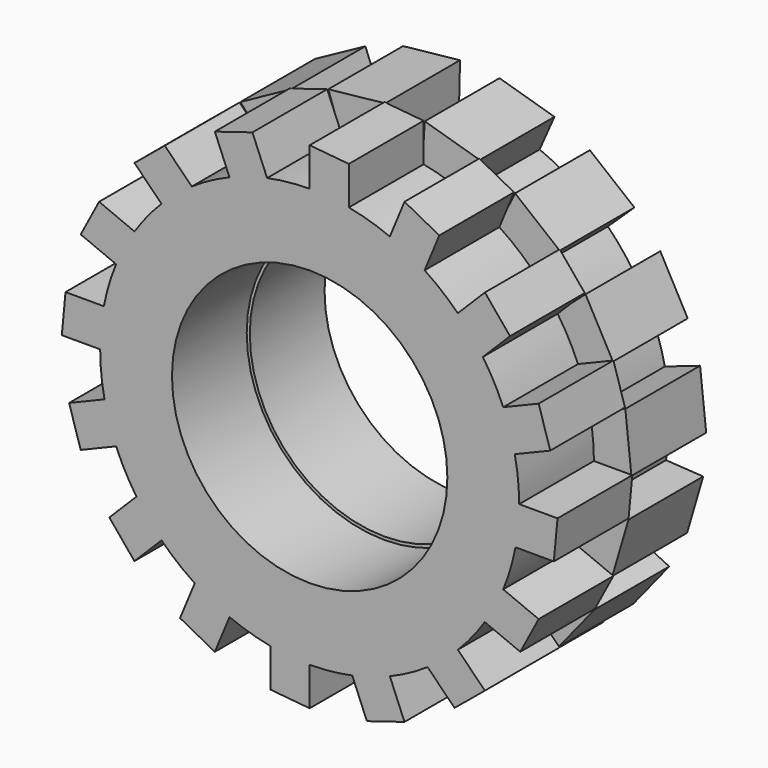
from build123d import *

# Parameters (mm, degrees)
F0_R     = 4.2
F1_DEPTH = 2.85
F2_R     = 4.106282
F3_DEPTH = 2.85


with BuildPart() as f1:
    # F0 (on Front) → F1 (new body)
    with BuildSketch(Plane.XZ):
        with BuildLine():
            Line((0, 7.56), (0, 6.39))
            ThreePointArc((0, 6.39), (-0.652648, 6.356583), (-1.298471, 6.256682))
            Line((-1.298471, 6.256682), (-1.74621, 7.337621))
            Line((-1.74621, 7.337621), (-2.893087, 6.984529))
            Line((-2.893087, 6.984529), (-2.445347, 5.90359))
            ThreePointArc((-2.445347, 5.90359), (-3.035528, 5.622959), (-3.593959, 5.283518))
            Line((-3.593959, 5.283518), (-4.421274, 6.110833))
            Line((-4.421274, 6.110833), (-5.345727, 5.345727))
            Line((-5.345727, 5.345727), (-4.518412, 4.518412))
            ThreePointArc((-4.518412, 4.518412), (-4.956275, 4.033291), (-5.3423, 3.505985))
            Line((-5.3423, 3.505985), (-6.423239, 3.953725))
            Line((-6.423239, 3.953725), (-6.984529, 2.893087))
            Line((-6.984529, 2.893087), (-5.90359, 2.445347))
            ThreePointArc((-5.90359, 2.445347), (-6.122475, 1.829591), (-6.277324, 1.194698))
            Line((-6.277324, 1.194698), (-7.447324, 1.194698))
            Line((-7.447324, 1.194698), (-7.56, 0))
            Line((-7.56, 0), (-6.39, 0))
            ThreePointArc((-6.39, 0), (-6.356583, -0.652648), (-6.256682, -1.298471))
            Line((-6.256682, -1.298471), (-7.337621, -1.74621))
            Line((-7.337621, -1.74621), (-6.984529, -2.893087))
            Line((-6.984529, -2.893087), (-5.90359, -2.445347))
            ThreePointArc((-5.90359, -2.445347), (-5.622959, -3.035528), (-5.283518, -3.593959))
            Line((-5.283518, -3.593959), (-6.110833, -4.421274))
            Line((-6.110833, -4.421274), (-5.345727, -5.345727))
            Line((-5.345727, -5.345727), (-4.518412, -4.518412))
            ThreePointArc((-4.518412, -4.518412), (-4.033291, -4.956275), (-3.505985, -5.3423))
            Line((-3.505985, -5.3423), (-3.953725, -6.423239))
            Line((-3.953725, -6.423239), (-2.893087, -6.984529))
            Line((-2.893087, -6.984529), (-2.445347, -5.90359))
            ThreePointArc((-2.445347, -5.90359), (-1.829591, -6.122475), (-1.194698, -6.277324))
            Line((-1.194698, -6.277324), (-1.194698, -7.447324))
            Line((-1.194698, -7.447324), (0, -7.56))
            Line((0, -7.56), (0, -6.39))
            ThreePointArc((0, -6.39), (0.652648, -6.356583), (1.298471, -6.256682))
            Line((1.298471, -6.256682), (1.74621, -7.337621))
            Line((1.74621, -7.337621), (2.893087, -6.984529))
            Line((2.893087, -6.984529), (2.445347, -5.90359))
            ThreePointArc((2.445347, -5.90359), (3.035528, -5.622959), (3.593959, -5.283518))
            Line((3.593959, -5.283518), (4.421274, -6.110833))
            Line((4.421274, -6.110833), (5.345727, -5.345727))
            Line((5.345727, -5.345727), (4.518412, -4.518412))
            ThreePointArc((4.518412, -4.518412), (4.956275, -4.033291), (5.3423, -3.505985))
            Line((5.3423, -3.505985), (6.423239, -3.953725))
            Line((6.423239, -3.953725), (6.984529, -2.893087))
            Line((6.984529, -2.893087), (5.90359, -2.445347))
            ThreePointArc((5.90359, -2.445347), (6.122475, -1.829591), (6.277324, -1.194698))
            Line((6.277324, -1.194698), (7.447324, -1.194698))
            Line((7.447324, -1.194698), (7.56, 0))
            Line((7.56, 0), (6.39, 0))
            ThreePointArc((6.39, 0), (6.356583, 0.652648), (6.256682, 1.298471))
            Line((6.256682, 1.298471), (7.337621, 1.74621))
            Line((7.337621, 1.74621), (6.984529, 2.893087))
            Line((6.984529, 2.893087), (5.90359, 2.445347))
            ThreePointArc((5.90359, 2.445347), (5.622959, 3.035528), (5.283518, 3.593959))
            Line((5.283518, 3.593959), (6.110833, 4.421274))
            Line((6.110833, 4.421274), (5.345727, 5.345727))
            Line((5.345727, 5.345727), (4.518412, 4.518412))
            ThreePointArc((4.518412, 4.518412), (4.033291, 4.956275), (3.505985, 5.3423))
            Line((3.505985, 5.3423), (3.953725, 6.423239))
            Line((3.953725, 6.423239), (2.893087, 6.984529))
            Line((2.893087, 6.984529), (2.445347, 5.90359))
            ThreePointArc((2.445347, 5.90359), (1.829591, 6.122475), (1.194698, 6.277324))
            Line((1.194698, 6.277324), (1.194698, 7.447324))
            Line((1.194698, 7.447324), (0, 7.56))
        make_face()
        Circle(F0_R, mode=Mode.SUBTRACT)
        with BuildLine():
            Line((0, 7.56), (0, 6.39))
            ThreePointArc((0, 6.39), (-0.652648, 6.356583), (-1.298471, 6.256682))
            Line((-1.298471, 6.256682), (-1.74621, 7.337621))
            Line((-1.74621, 7.337621), (-2.893087, 6.984529))
            Line((-2.893087, 6.984529), (-2.445347, 5.90359))
            ThreePointArc((-2.445347, 5.90359), (-3.035528, 5.622959), (-3.593959, 5.283518))
            Line((-3.593959, 5.283518), (-4.421274, 6.110833))
            Line((-4.421274, 6.110833), (-5.345727, 5.345727))
            Line((-5.345727, 5.345727), (-4.518412, 4.518412))
            ThreePointArc((-4.518412, 4.518412), (-4.956275, 4.033291), (-5.3423, 3.505985))
            Line((-5.3423, 3.505985), (-6.423239, 3.953725))
            Line((-6.423239, 3.953725), (-6.984529, 2.893087))
            Line((-6.984529, 2.893087), (-5.90359, 2.445347))
            ThreePointArc((-5.90359, 2.445347), (-6.122475, 1.829591), (-6.277324, 1.194698))
            Line((-6.277324, 1.194698), (-7.447324, 1.194698))
            Line((-7.447324, 1.194698), (-7.56, 0))
            Line((-7.56, 0), (-6.39, 0))
            ThreePointArc((-6.39, 0), (-6.356583, -0.652648), (-6.256682, -1.298471))
            Line((-6.256682, -1.298471), (-7.337621, -1.74621))
            Line((-7.337621, -1.74621), (-6.984529, -2.893087))
            Line((-6.984529, -2.893087), (-5.90359, -2.445347))
            ThreePointArc((-5.90359, -2.445347), (-5.622959, -3.035528), (-5.283518, -3.593959))
            Line((-5.283518, -3.593959), (-6.110833, -4.421274))
            Line((-6.110833, -4.421274), (-5.345727, -5.345727))
            Line((-5.345727, -5.345727), (-4.518412, -4.518412))
            ThreePointArc((-4.518412, -4.518412), (-4.033291, -4.956275), (-3.505985, -5.3423))
            Line((-3.505985, -5.3423), (-3.953725, -6.423239))
            Line((-3.953725, -6.423239), (-2.893087, -6.984529))
            Line((-2.893087, -6.984529), (-2.445347, -5.90359))
            ThreePointArc((-2.445347, -5.90359), (-1.829591, -6.122475), (-1.194698, -6.277324))
            Line((-1.194698, -6.277324), (-1.194698, -7.447324))
            Line((-1.194698, -7.447324), (0, -7.56))
            Line((0, -7.56), (0, -6.39))
            ThreePointArc((0, -6.39), (0.652648, -6.356583), (1.298471, -6.256682))
            Line((1.298471, -6.256682), (1.74621, -7.337621))
            Line((1.74621, -7.337621), (2.893087, -6.984529))
            Line((2.893087, -6.984529), (2.445347, -5.90359))
            ThreePointArc((2.445347, -5.90359), (3.035528, -5.622959), (3.593959, -5.283518))
            Line((3.593959, -5.283518), (4.421274, -6.110833))
            Line((4.421274, -6.110833), (5.345727, -5.345727))
            Line((5.345727, -5.345727), (4.518412, -4.518412))
            ThreePointArc((4.518412, -4.518412), (4.956275, -4.033291), (5.3423, -3.505985))
            Line((5.3423, -3.505985), (6.423239, -3.953725))
            Line((6.423239, -3.953725), (6.984529, -2.893087))
            Line((6.984529, -2.893087), (5.90359, -2.445347))
            ThreePointArc((5.90359, -2.445347), (6.122475, -1.829591), (6.277324, -1.194698))
            Line((6.277324, -1.194698), (7.447324, -1.194698))
            Line((7.447324, -1.194698), (7.56, 0))
            Line((7.56, 0), (6.39, 0))
            ThreePointArc((6.39, 0), (6.356583, 0.652648), (6.256682, 1.298471))
            Line((6.256682, 1.298471), (7.337621, 1.74621))
            Line((7.337621, 1.74621), (6.984529, 2.893087))
            Line((6.984529, 2.893087), (5.90359, 2.445347))
            ThreePointArc((5.90359, 2.445347), (5.622959, 3.035528), (5.283518, 3.593959))
            Line((5.283518, 3.593959), (6.110833, 4.421274))
            Line((6.110833, 4.421274), (5.345727, 5.345727))
            Line((5.345727, 5.345727), (4.518412, 4.518412))
            ThreePointArc((4.518412, 4.518412), (4.033291, 4.956275), (3.505985, 5.3423))
            Line((3.505985, 5.3423), (3.953725, 6.423239))
            Line((3.953725, 6.423239), (2.893087, 6.984529))
            Line((2.893087, 6.984529), (2.445347, 5.90359))
            ThreePointArc((2.445347, 5.90359), (1.829591, 6.122475), (1.194698, 6.277324))
            Line((1.194698, 6.277324), (1.194698, 7.447324))
            Line((1.194698, 7.447324), (0, 7.56))
        make_face()
        Circle(F0_R, mode=Mode.SUBTRACT)
    extrude(amount=F1_DEPTH)

    # F2 (on Front) → F3 (join)
    with BuildSketch(Plane.XZ):
        with BuildLine():
            Line((-4.393702, 6.134064), (-3.639765, 5.282492))
            ThreePointArc((-3.639765, 5.282492), (-4.105338, 4.929383), (-4.536848, 4.535375))
            Line((-4.536848, 4.535375), (-5.309338, 5.346168))
            Line((-5.309338, 5.346168), (-6.406656, 3.985739))
            Line((-6.406656, 3.985739), (-5.384227, 3.487508))
            ThreePointArc((-5.384227, 3.487508), (-5.679231, 2.983111), (-5.927114, 2.453963))
            Line((-5.927114, 2.453963), (-6.951079, 2.90742))
            Line((-6.951079, 2.90742), (-7.444255, 1.230622))
            Line((-7.444255, 1.230622), (-6.308989, 1.161583))
            ThreePointArc((-6.308989, 1.161583), (-6.388512, 0.582688), (-6.41503, -0.001042))
            Line((-6.41503, -0.001042), (-7.534581, 0.026043))
            Line((-7.534581, 0.026043), (-7.348533, -1.711847))
            Line((-7.348533, -1.711847), (-6.273264, -1.341183))
            ThreePointArc((-6.273264, -1.341183), (-6.125201, -1.906444), (-5.926316, -2.455888))
            Line((-5.926316, -2.455888), (-6.971011, -2.859299))
            Line((-6.971011, -2.859299), (-6.134064, -4.393702))
            Line((-6.134064, -4.393702), (-5.282492, -3.639765))
            ThreePointArc((-5.282492, -3.639765), (-4.929383, -4.105338), (-4.535375, -4.536848))
            Line((-4.535375, -4.536848), (-5.346168, -5.309338))
            Line((-5.346168, -5.309338), (-3.985739, -6.406656))
            Line((-3.985739, -6.406656), (-3.487508, -5.384227))
            ThreePointArc((-3.487508, -5.384227), (-2.983111, -5.679231), (-2.453963, -5.927114))
            Line((-2.453963, -5.927114), (-2.90742, -6.951079))
            Line((-2.90742, -6.951079), (-1.230622, -7.444255))
            Line((-1.230622, -7.444255), (-1.161583, -6.308989))
            ThreePointArc((-1.161583, -6.308989), (-0.582688, -6.388512), (0.001042, -6.41503))
            Line((0.001042, -6.41503), (-0.026043, -7.534581))
            Line((-0.026043, -7.534581), (1.711847, -7.348533))
            Line((1.711847, -7.348533), (1.341183, -6.273264))
            ThreePointArc((1.341183, -6.273264), (1.906444, -6.125201), (2.455888, -5.926316))
            Line((2.455888, -5.926316), (2.859299, -6.971011))
            Line((2.859299, -6.971011), (4.393702, -6.134064))
            Line((4.393702, -6.134064), (3.639765, -5.282492))
            ThreePointArc((3.639765, -5.282492), (4.105338, -4.929383), (4.536848, -4.535375))
            Line((4.536848, -4.535375), (5.309338, -5.346168))
            Line((5.309338, -5.346168), (6.406656, -3.985739))
            Line((6.406656, -3.985739), (5.384227, -3.487508))
            ThreePointArc((5.384227, -3.487508), (5.679231, -2.983111), (5.927114, -2.453963))
            Line((5.927114, -2.453963), (6.951079, -2.90742))
            Line((6.951079, -2.90742), (7.444255, -1.230622))
            Line((7.444255, -1.230622), (6.308989, -1.161583))
            ThreePointArc((6.308989, -1.161583), (6.388512, -0.582688), (6.41503, 0.001042))
            Line((6.41503, 0.001042), (7.534581, -0.026043))
            Line((7.534581, -0.026043), (7.348533, 1.711847))
            Line((7.348533, 1.711847), (6.273264, 1.341183))
            ThreePointArc((6.273264, 1.341183), (6.125201, 1.906444), (5.926316, 2.455888))
            Line((5.926316, 2.455888), (6.971011, 2.859299))
            Line((6.971011, 2.859299), (6.134064, 4.393702))
            Line((6.134064, 4.393702), (5.282492, 3.639765))
            ThreePointArc((5.282492, 3.639765), (4.929383, 4.105338), (4.535375, 4.536848))
            Line((4.535375, 4.536848), (5.346168, 5.309338))
            Line((5.346168, 5.309338), (3.985739, 6.406656))
            Line((3.985739, 6.406656), (3.487508, 5.384227))
            ThreePointArc((3.487508, 5.384227), (2.983111, 5.679231), (2.453963, 5.927114))
            Line((2.453963, 5.927114), (2.90742, 6.951079))
            Line((2.90742, 6.951079), (1.230622, 7.444255))
            Line((1.230622, 7.444255), (1.161583, 6.308989))
            ThreePointArc((1.161583, 6.308989), (0.582688, 6.388512), (-0.001042, 6.41503))
            Line((-0.001042, 6.41503), (0.026043, 7.534581))
            Line((0.026043, 7.534581), (-1.711847, 7.348533))
            Line((-1.711847, 7.348533), (-1.341183, 6.273264))
            ThreePointArc((-1.341183, 6.273264), (-1.906444, 6.125201), (-2.455888, 5.926316))
            Line((-2.455888, 5.926316), (-2.859299, 6.971011))
            Line((-2.859299, 6.971011), (-4.393702, 6.134064))
        make_face()
        Circle(F2_R, mode=Mode.SUBTRACT)
    extrude(amount=-F3_DEPTH)


solid = f1.part
